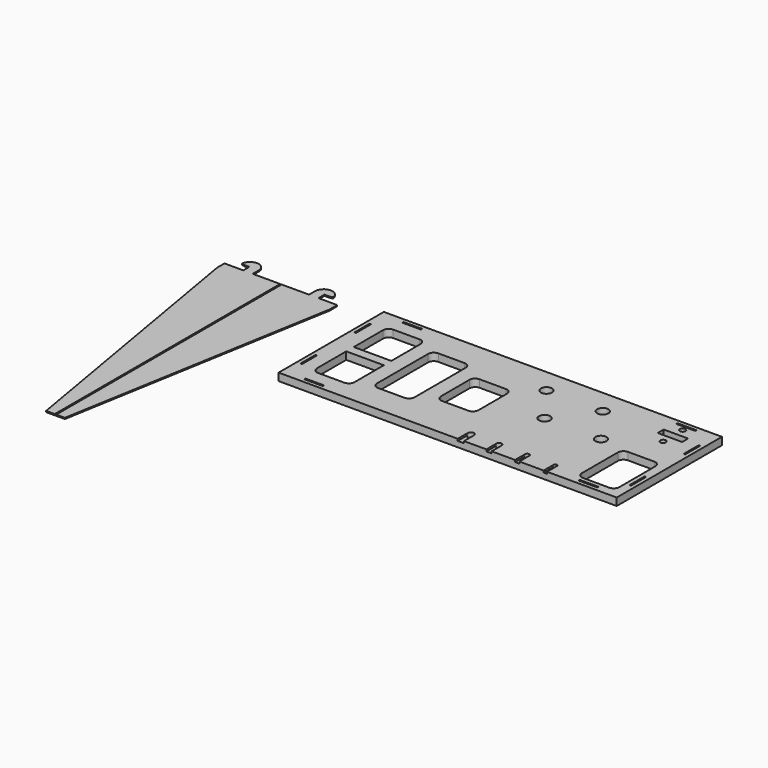
from build123d import *

# Parameters (mm, degrees)
F0_W     = 0.8
F0_H     = 10
F0_W_2   = 10
F0_H_2   = 0.8
F0_R     = 3
F0_R_2   = 1.5
F0_W_3   = 13
F0_H_3   = 4
F0_W_4   = 20
F0_H_4   = 5
F1_DEPTH = 4
F2_DEPTH = 0.6
F3_DEPTH = 0.6
F4_SIZE  = 0.4
F6_DEPTH = 3


with BuildPart() as f1:
    # F0 (on Top) → F1 (new body)
    with BuildSketch(Plane.XY):
        with BuildLine():
            Line((86.1195294857, 46.5831286013), (-93.8804705143, 46.5831286013))
            Line((-93.8804705143, 46.5831286013), (-93.8804705143, -23.4168713987))
            Line((-93.8804705143, -23.4168713987), (1.4695294857, -23.4168713987))
            Line((1.4695294857, -23.4168713987), (1.4695294857, -16.7668713987))
            ThreePointArc((1.4695294857, -16.7668713987), (3.1195294857, -15.1168713987), (4.7695294857, -16.7668713987))
            Line((4.7695294857, -16.7668713987), (4.7695294857, -23.4168713987))
            Line((4.7695294857, -23.4168713987), (16.7195294857, -23.4168713987))
            Line((16.7195294857, -23.4168713987), (16.7195294857, -16.7668713987))
            ThreePointArc((16.7195294857, -16.7668713987), (18.1195294857, -15.3668713987), (19.5195294857, -16.7668713987))
            Line((19.5195294857, -16.7668713987), (19.5195294857, -23.4168713987))
            Line((19.5195294857, -23.4168713987), (31.9695294857, -23.4168713987))
            Line((31.9695294857, -23.4168713987), (31.9695294857, -16.7668713987))
            ThreePointArc((31.9695294857, -16.7668713987), (33.1195294857, -15.6168713987), (34.2695294857, -16.7668713987))
            Line((34.2695294857, -16.7668713987), (34.2695294857, -23.4168713987))
            Line((34.2695294857, -23.4168713987), (47.2195294857, -23.4168713987))
            Line((47.2195294857, -23.4168713987), (47.2195294857, -16.7668713987))
            ThreePointArc((47.2195294857, -16.7668713987), (48.1195294857, -15.8668713987), (49.0195294857, -16.7668713987))
            Line((49.0195294857, -16.7668713987), (49.0195294857, -23.4168713987))
            Line((49.0195294857, -23.4168713987), (86.1195294857, -23.4168713987))
            Line((86.1195294857, -23.4168713987), (86.1195294857, -13.4168713987))
            Line((86.1195294857, -13.4168713987), (86.1195294857, -7.4168713987))
            Line((86.1195294857, -7.4168713987), (86.1195294857, 30.5831286013))
            Line((86.1195294857, 30.5831286013), (86.1195294857, 36.5831286013))
            Line((86.1195294857, 36.5831286013), (86.1195294857, 46.5831286013))
        make_face()
        with Locations((-91.4804705143, -6.4168713987)):
            Rectangle(F0_W, F0_H, mode=Mode.SUBTRACT)
        with Locations((-76.8804705143, -21.0168713987)):
            Rectangle(F0_W_2, F0_H_2, mode=Mode.SUBTRACT)
        with Locations((69.1195294857, -21.0168713987)):
            Rectangle(F0_W_2, F0_H_2, mode=Mode.SUBTRACT)
        with BuildLine():
            ThreePointArc((61.1195294857, 8.5831286013), (61.9982091421, 10.7044489449), (64.1195294857, 11.5831286013))
            Line((64.1195294857, 11.5831286013), (78.1195294857, 11.5831286013))
            ThreePointArc((78.1195294857, 11.5831286013), (80.2408498293, 10.7044489449), (81.1195294857, 8.5831286013))
            Line((81.1195294857, 8.5831286013), (81.1195294857, -15.4168713987))
            ThreePointArc((81.1195294857, -15.4168713987), (80.2408498293, -17.5381917422), (78.1195294857, -18.4168713987))
            Line((78.1195294857, -18.4168713987), (64.1195294857, -18.4168713987))
            ThreePointArc((64.1195294857, -18.4168713987), (61.9982091421, -17.5381917422), (61.1195294857, -15.4168713987))
            Line((61.1195294857, -15.4168713987), (61.1195294857, 8.5831286013))
        make_face(mode=Mode.SUBTRACT)
        with Locations((83.7195294857, -6.4168713987)):
            Rectangle(F0_W, F0_H, mode=Mode.SUBTRACT)
        with Locations((-91.4804705143, 29.5831286013)):
            Rectangle(F0_W, F0_H, mode=Mode.SUBTRACT)
        with BuildLine():
            ThreePointArc((-83.8804705143, 33.5831286013), (-83.0017908579, 35.7044489449), (-80.8804705143, 36.5831286013))
            Line((-80.8804705143, 36.5831286013), (-66.8804705143, 36.5831286013))
            ThreePointArc((-66.8804705143, 36.5831286013), (-64.7591501707, 35.7044489449), (-63.8804705143, 33.5831286013))
            Line((-63.8804705143, 33.5831286013), (-63.8804705143, 14.0831286013))
            Line((-63.8804705143, 14.0831286013), (-63.8804705143, 9.0831286013))
            Line((-63.8804705143, 9.0831286013), (-63.8804705143, -10.4168713987))
            ThreePointArc((-63.8804705143, -10.4168713987), (-64.7591501707, -12.5381917422), (-66.8804705143, -13.4168713987))
            Line((-66.8804705143, -13.4168713987), (-80.8804705143, -13.4168713987))
            ThreePointArc((-80.8804705143, -13.4168713987), (-83.0017908579, -12.5381917422), (-83.8804705143, -10.4168713987))
            Line((-83.8804705143, -10.4168713987), (-83.8804705143, 9.0831286013))
            Line((-83.8804705143, 9.0831286013), (-83.8804705143, 14.0831286013))
            Line((-83.8804705143, 14.0831286013), (-83.8804705143, 33.5831286013))
        make_face(mode=Mode.SUBTRACT)
        with BuildLine():
            ThreePointArc((-55.8804705143, 28.5831286013), (-55.0017908579, 30.7044489449), (-52.8804705143, 31.5831286013))
            Line((-52.8804705143, 31.5831286013), (-38.8804705143, 31.5831286013))
            ThreePointArc((-38.8804705143, 31.5831286013), (-36.7591501707, 30.7044489449), (-35.8804705143, 28.5831286013))
            Line((-35.8804705143, 28.5831286013), (-35.8804705143, -5.4168713987))
            ThreePointArc((-35.8804705143, -5.4168713987), (-36.7591501707, -7.5381917422), (-38.8804705143, -8.4168713987))
            Line((-38.8804705143, -8.4168713987), (-52.8804705143, -8.4168713987))
            ThreePointArc((-52.8804705143, -8.4168713987), (-55.0017908579, -7.5381917422), (-55.8804705143, -5.4168713987))
            Line((-55.8804705143, -5.4168713987), (-55.8804705143, 28.5831286013))
        make_face(mode=Mode.SUBTRACT)
        with Locations((-76.8804705143, 44.1831286013)):
            Rectangle(F0_W_2, F0_H_2, mode=Mode.SUBTRACT)
        with BuildLine():
            ThreePointArc((-27.8804705143, 21.0831286013), (-27.0017908579, 23.2044489449), (-24.8804705143, 24.0831286013))
            Line((-24.8804705143, 24.0831286013), (-10.8804705143, 24.0831286013))
            ThreePointArc((-10.8804705143, 24.0831286013), (-8.7591501707, 23.2044489449), (-7.8804705143, 21.0831286013))
            Line((-7.8804705143, 21.0831286013), (-7.8804705143, 2.0831286013))
            ThreePointArc((-7.8804705143, 2.0831286013), (-8.7591501707, -0.0381917422), (-10.8804705143, -0.9168713987))
            Line((-10.8804705143, -0.9168713987), (-24.8804705143, -0.9168713987))
            ThreePointArc((-24.8804705143, -0.9168713987), (-27.0017908579, -0.0381917422), (-27.8804705143, 2.0831286013))
            Line((-27.8804705143, 2.0831286013), (-27.8804705143, 21.0831286013))
        make_face(mode=Mode.SUBTRACT)
        with Locations((18.1195294857, 13.5831286013)):
            Circle(F0_R, mode=Mode.SUBTRACT)
        with Locations((3.1195294857, 33.5831286013)):
            Circle(F0_R, mode=Mode.SUBTRACT)
        with Locations((33.1195294857, 33.5831286013)):
            Circle(F0_R, mode=Mode.SUBTRACT)
        with Locations((48.1195294857, 13.5831286013)):
            Circle(F0_R, mode=Mode.SUBTRACT)
        with Locations((69.6195294857, 28.0831286013)):
            Circle(F0_R_2, mode=Mode.SUBTRACT)
        with Locations((69.6195294857, 34.5831286013)):
            Rectangle(F0_W_3, F0_H_3, mode=Mode.SUBTRACT)
        with Locations((69.6195294857, 41.0831286013)):
            Circle(F0_R_2, mode=Mode.SUBTRACT)
        with Locations((69.1195294857, 44.1831286013)):
            Rectangle(F0_W_2, F0_H_2, mode=Mode.SUBTRACT)
        with Locations((83.7195294857, 29.5831286013)):
            Rectangle(F0_W, F0_H, mode=Mode.SUBTRACT)
        with Locations((-73.8804705143, 11.5831286013)):
            Rectangle(F0_W_4, F0_H_4)
    extrude(amount=F1_DEPTH)

    # F0 (on Top) → F6 (join)
    with BuildSketch(Plane.XY):
        with BuildLine():
            Line((1.4695294857, -16.7668713987), (1.4695294857, -23.4168713987))
            Line((1.4695294857, -23.4168713987), (4.7695294857, -23.4168713987))
            Line((4.7695294857, -23.4168713987), (4.7695294857, -16.7668713987))
            ThreePointArc((4.7695294857, -16.7668713987), (3.1195294857, -18.4168713987), (1.4695294857, -16.7668713987))
        make_face()
        with BuildLine():
            Line((16.7195294857, -16.7668713987), (16.7195294857, -23.4168713987))
            Line((16.7195294857, -23.4168713987), (19.5195294857, -23.4168713987))
            Line((19.5195294857, -23.4168713987), (19.5195294857, -16.7668713987))
            ThreePointArc((19.5195294857, -16.7668713987), (18.1195294857, -18.1668713987), (16.7195294857, -16.7668713987))
        make_face()
        with BuildLine():
            Line((31.9695294857, -16.7668713987), (31.9695294857, -23.4168713987))
            Line((31.9695294857, -23.4168713987), (34.2695294857, -23.4168713987))
            Line((34.2695294857, -23.4168713987), (34.2695294857, -16.7668713987))
            ThreePointArc((34.2695294857, -16.7668713987), (33.1195294857, -17.9168713987), (31.9695294857, -16.7668713987))
        make_face()
        with BuildLine():
            Line((47.2195294857, -23.4168713987), (49.0195294857, -23.4168713987))
            Line((49.0195294857, -23.4168713987), (49.0195294857, -16.7668713987))
            ThreePointArc((49.0195294857, -16.7668713987), (48.1195294857, -17.6668713987), (47.2195294857, -16.7668713987))
            Line((47.2195294857, -16.7668713987), (47.2195294857, -23.4168713987))
        make_face()
    extrude(amount=F6_DEPTH)


with BuildPart() as f2:
    # F0 (on Top) → F2 (new body)
    with BuildSketch(Plane.XY):
        Polygon((-136.9385750294, 44.4011760906), (-146.9385750294, 44.4011760906), (-146.9385750294, -105.5988239094), (-141.9385750294, -105.5988239094), (-136.9385750294, -76.5988239094), align=None)
    extrude(amount=F2_DEPTH)

    # F0 (on Top) → F3 (join)
    with BuildSketch(Plane.XY):
        Polygon((-131.9385750294, 44.4011760906), (-136.9385750294, 44.4011760906), (-136.9385750294, -76.5988239094), (-116.9385750294, 39.4011760906), (-116.9385750294, 44.4011760906), (-126.9385750294, 44.4011760906), (-126.9385750294, 48.4011760906), (-131.9385750294, 48.4011760906), align=None)
        with BuildLine():
            ThreePointArc((-122.6618522111, 48.8658651938), (-127.5212108982, 53.0453531493), (-131.9385750294, 48.4011760906))
            Line((-131.9385750294, 48.4011760906), (-126.9385750294, 48.4011760906))
            Line((-126.9385750294, 48.4011760906), (-123.9385750294, 48.4011760906))
            Line((-123.9385750294, 48.4011760906), (-122.6618522111, 48.8658651938))
        make_face()
    extrude(amount=F3_DEPTH)

    # F4
    f4_edges = [f2.edges().sort_by_distance(p)[0] for p in [
        (-146.938575, -30.598824, 0.6),
    ]]
    chamfer(f4_edges, length=F4_SIZE)

    # F5: F2 across face


with BuildPart() as f2_1:
    add(f2.part)
    add(f2.part.mirror(Plane(origin=(-146.9385750294, -30.5988239094, 0.1), x_dir=(0, -1, 0), z_dir=(-1, 0, 0))))


solid = Compound([f1.part, f2_1.part])
